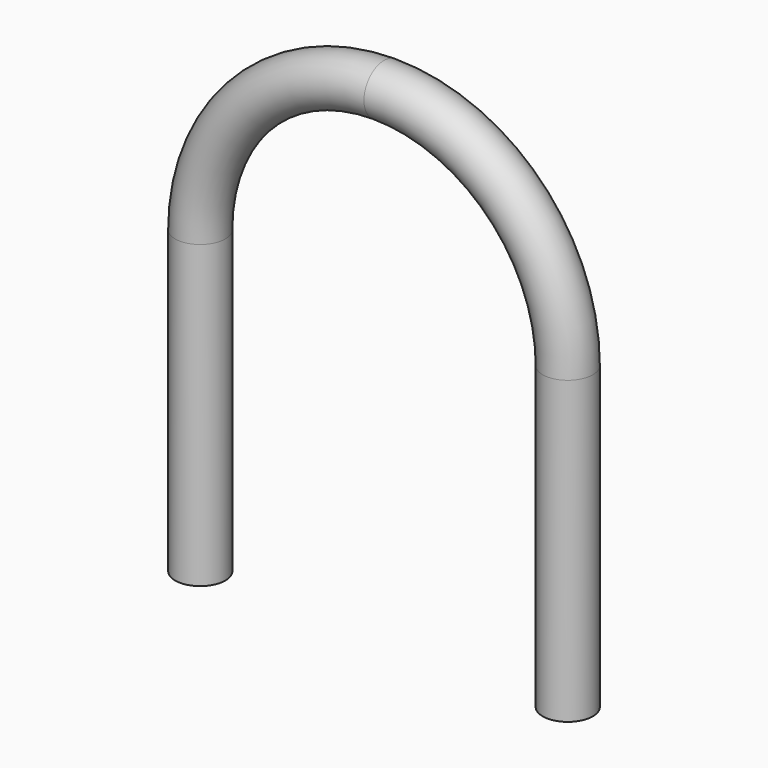
from build123d import *

# Parameters (mm, degrees)
F1_R = 4.7625


with BuildPart() as f2:
    # F2: sweep along a path in F0
    with BuildLine(Plane.XZ) as f2_path:
        Line((-34.925, 0), (-34.925, 57.15))
        ThreePointArc((-34.925, 57.15), (-24.6957043329, 81.8457043329), (0, 92.075))
        ThreePointArc((0, 92.075), (24.6957043329, 81.8457043329), (34.925, 57.15))
        Line((34.925, 57.15), (34.925, 0))
    # F1 (on Top) → F2 (sweep)
    with BuildSketch(Plane.XY):
        with Locations((-34.925, 0)):
            Circle(F1_R)
    sweep(path=f2_path.line)


solid = f2.part
